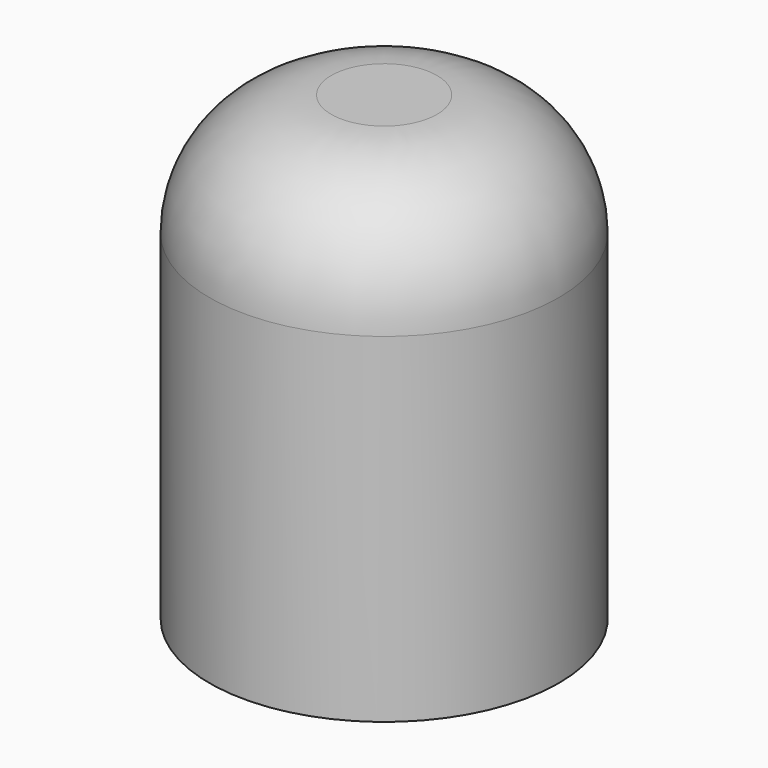
from build123d import *

# Parameters (mm, degrees)
F2_R     = 67.425463
F3_DEPTH = 178.096354
F4_R     = 47.026113


with BuildPart() as f3:
    # F2 (on face) → F3 (new body)
    with BuildSketch(Plane.XY):
        Circle(F2_R)
    extrude(amount=F3_DEPTH)

    # F4
    f4_edges = [f3.edges().sort_by_distance(p)[0] for p in [
        (-67.425463, 0, 178.096354),
    ]]
    fillet(f4_edges, radius=F4_R)


solid = f3.part
